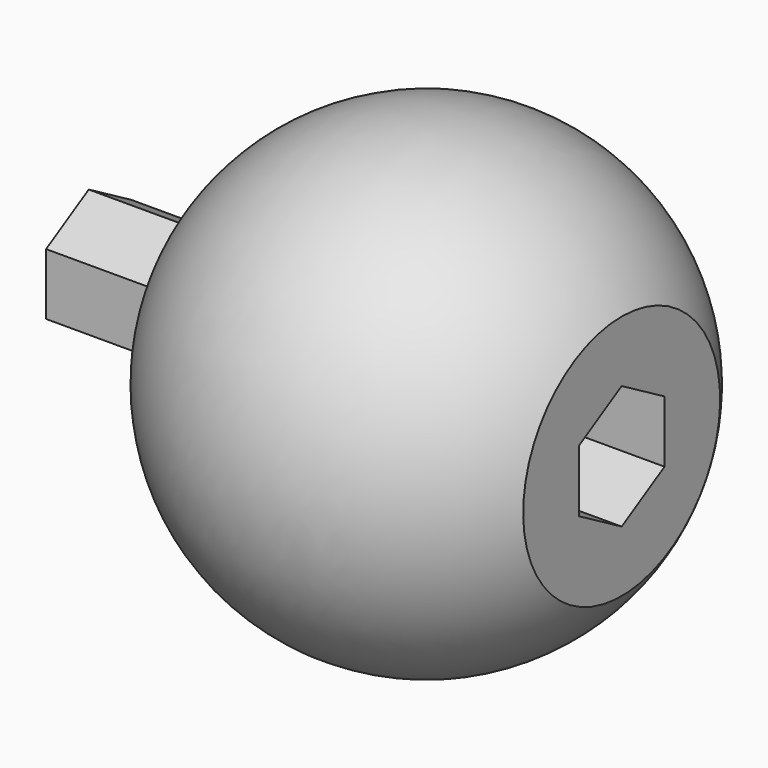
from build123d import *

# Parameters (mm, degrees)
F3_DEPTH = 12.7
F5_DEPTH = 12.7


with BuildPart() as f1:
    # F0 (on Front) → F1 (revolve)
    with BuildSketch(Plane.XZ):
        with BuildLine():
            Line((17.4625, 0), (17.4625, 10.998523))
            ThreePointArc((17.4625, 10.998523), (0, 20.6375), (-17.4625, 10.998523))
            Line((-17.4625, 10.998523), (-17.4625, 0))
            Line((-17.4625, 0), (17.4625, 0))
        make_face()
    revolve(axis=Axis((-1.484415, 0, 0), (1, 0, 0)))

    # F2 (on face) → F3 (cut)
    with BuildSketch(Plane.YZ.offset(17.4625)):
        Polygon((4.7879, -2.764295), (4.7879, 2.764295), (0, 5.528591), (-4.7879, 2.764295), (-4.7879, -2.764295), (0, -5.528591), align=None)
    extrude(amount=-F3_DEPTH, mode=Mode.SUBTRACT)

    # F4 (on face) → F5 (join)
    with BuildSketch(Plane(origin=(-17.4625, 0, 0), x_dir=(0, -1, 0), z_dir=(-1, 0, 0))):
        Polygon((4.7625, -2.749631), (4.7625, 2.749631), (0, 5.499261), (-4.7625, 2.749631), (-4.7625, -2.749631), (0, -5.499261), align=None)
    extrude(amount=F5_DEPTH)


solid = f1.part
